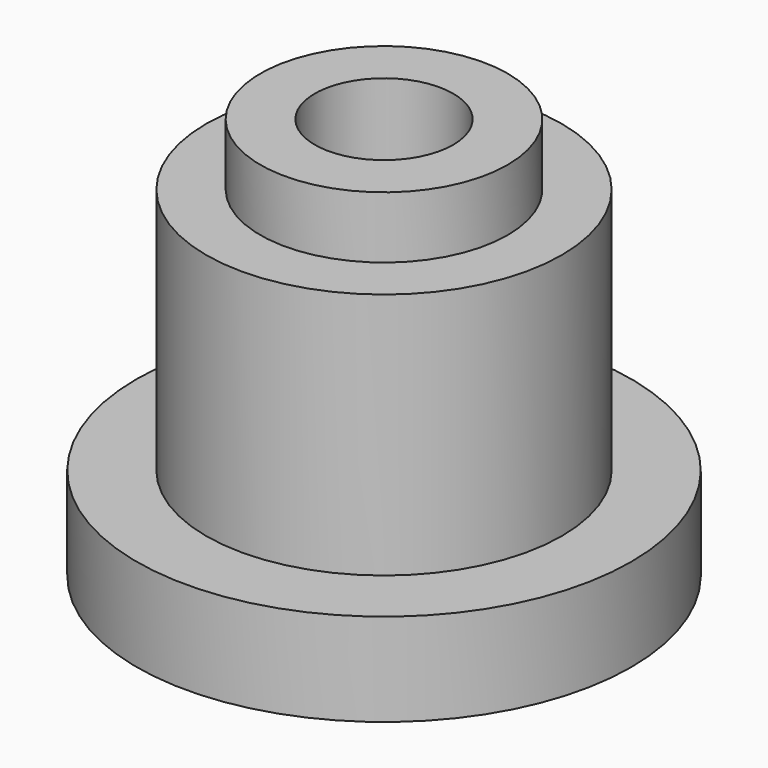
from build123d import *

# Parameters (mm, degrees)
F0_R     = 3.175
F1_DEPTH = 1.190625
F2_R     = 2.282031
F3_DEPTH = 3.175
F4_R     = 1.5875
F5_DEPTH = 0.79375
F6_R     = 0.889
F7_DEPTH = 5.160375


with BuildPart() as f1:
    # F0 (on Top) → F1 (new body)
    with BuildSketch(Plane.XY):
        Circle(F0_R)
    extrude(amount=F1_DEPTH)

    # F2 (on face) → F3 (join)
    with BuildSketch(Plane.XY.offset(1.190625)):
        Circle(F2_R)
    extrude(amount=F3_DEPTH)

    # F4 (on face) → F5 (join)
    with BuildSketch(Plane.XY.offset(4.365625)):
        Circle(F4_R)
    extrude(amount=F5_DEPTH)

    # F6 (on face) → F7 (cut, through all)
    with BuildSketch(Plane.XY.offset(5.159375)):
        Circle(F6_R)
    extrude(amount=-F7_DEPTH, mode=Mode.SUBTRACT)


solid = f1.part
